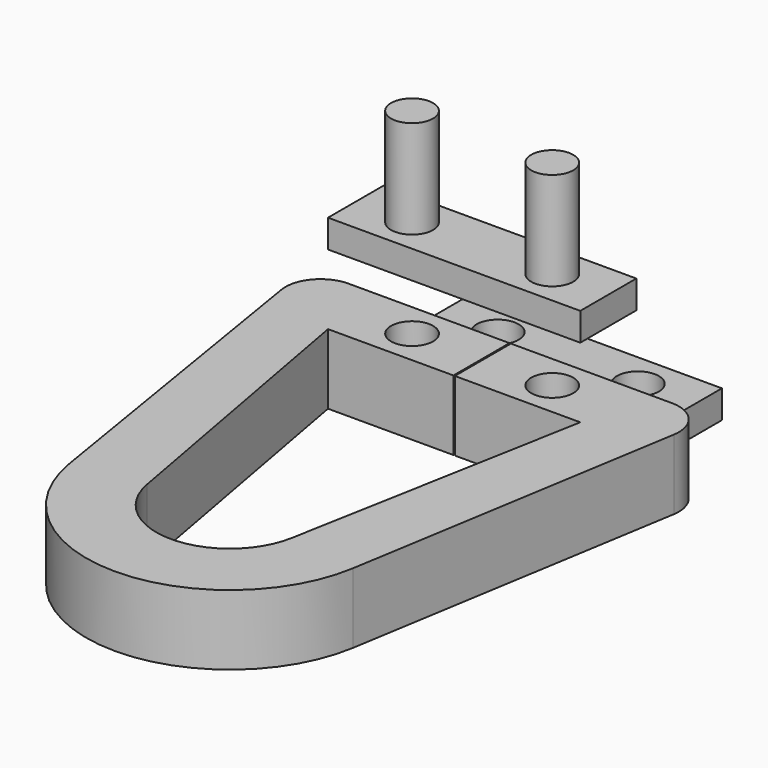
from build123d import *

# Parameters (mm, degrees)
PAD_DEPTH       = 5
SKETCH001_R     = 1.5
POCKET_DEPTH    = 5.001
SKETCH002_W     = 18
SKETCH002_H     = 5
PAD001_DEPTH    = 2
SKETCH003_R     = 1.5
PAD002_DEPTH    = 7
SKETCH004_W     = 18
SKETCH004_H     = 5
PAD003_DEPTH    = 2
SKETCH005_R     = 1.5
POCKET001_DEPTH = 5


with BuildPart() as body:
    # Sketch → Pad (new body)
    with BuildSketch(Plane.XY):
        with BuildLine():
            ThreePointArc((-5.164117, -0.945727), (0, -5.25), (5.164117, -0.945727))
            Line((9, 20), (5.164117, -0.945727))
            Line((0.05, 20), (9, 20))
            Line((0.05, 25), (0.05, 20))
            Line((11.532779, 25), (0.05, 25))
            ThreePointArc((14, 22.096493), (13.437873, 24.118832), (11.532779, 25))
            Line((14, 22.096493), (10.115608, -1.654381))
            ThreePointArc((-10.115608, -1.654381), (0, -10.25), (10.115608, -1.654381))
            Line((-10.115608, -1.654381), (-14, 22.096493))
            ThreePointArc((-11.532779, 25), (-13.437873, 24.118832), (-14, 22.096493))
            Line((-11.532779, 25), (-0.05, 25))
            Line((-0.05, 25), (-0.05, 20))
            Line((-0.05, 20), (-9, 20))
            Line((-5.164117, -0.945727), (-9, 20))
        make_face()
    extrude(amount=PAD_DEPTH)

    # Sketch001 → Pocket (cut, through all)
    with BuildSketch(Plane.XY.offset(5)):
        with Locations((-5, 22.5)):
            Circle(SKETCH001_R)
        with Locations((5, 22.5)):
            Circle(SKETCH001_R)
    extrude(amount=-POCKET_DEPTH, mode=Mode.SUBTRACT)


with BuildPart() as body001:
    # Sketch002 → Pad001 (new body)
    with BuildSketch(Plane.XY):
        with Locations((0, 22.5)):
            Rectangle(SKETCH002_W, SKETCH002_H)
    extrude(amount=PAD001_DEPTH)

    # Sketch003 (on Face6 of Pad001) → Pad002 (join)
    with BuildSketch(Plane.XY.offset(2)):
        with Locations((-5, 22.497488)):
            Circle(SKETCH003_R)
        with Locations((5, 22.497488)):
            Circle(SKETCH003_R)
    extrude(amount=PAD002_DEPTH)


with BuildPart() as body001_1:
    # Body001 placement: moved
    add(body001.part.moved(Location((0, 0, 10))))


with BuildPart() as body002:
    # Sketch004 → Pad003 (new body)
    with BuildSketch(Plane.XY):
        with Locations((0, 30.133005)):
            Rectangle(SKETCH004_W, SKETCH004_H)
    extrude(amount=PAD003_DEPTH)

    # Sketch005 (on Face6 of Pad003) → Pocket001 (cut)
    with BuildSketch(Plane.XY.offset(2)):
        with Locations((-5, 30.133005)):
            Circle(SKETCH005_R)
        with Locations((5, 30.133005)):
            Circle(SKETCH005_R)
    extrude(amount=-POCKET001_DEPTH, mode=Mode.SUBTRACT)


solid = Compound([body.part, body001_1.part, body002.part])
